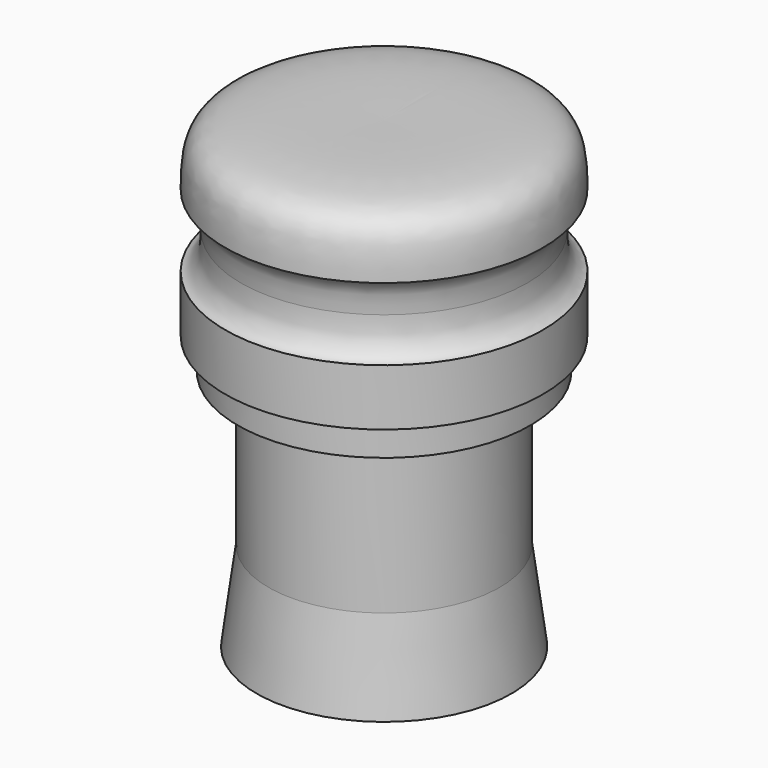
from build123d import *


with BuildPart() as f1:
    # F0 (on Right) → F1 (revolve)
    with BuildSketch(Plane.YZ):
        with BuildLine():
            Line((0, 37.465), (0, 0))
            Line((0, 0), (10.287, 0))
            Line((10.287, 0), (9.3345, 7.239))
            Line((9.3345, 7.239), (9.3345, 19.558))
            Line((9.3345, 19.558), (11.811, 19.558))
            Line((11.811, 19.558), (11.811, 22.098))
            Line((11.811, 22.098), (12.827, 22.098))
            Line((12.827, 22.098), (12.827, 26.67))
            add(Edge.make_bspline(
                [(12.827, 26.67), (12.4081355943, 26.7518746483), (11.668341413, 27.6965440026), (11.5477926188, 28.6778707178), (11.557, 29.591)],
                knots=[0, 0, 0, 0, 0.4500062565, 1, 1, 1, 1], degree=3))
            add(Edge.make_bspline(
                [(12.827, 32.512), (12.4568852809, 32.4087269434), (11.6627350099, 31.4718039327), (11.603105506, 30.474725655), (11.557, 29.591)],
                knots=[0, 0, 0, 0, 0.4510036491, 1, 1, 1, 1], degree=3))
            add(Edge.make_bspline(
                [(0, 37.465), (2.9634942766, 37.465), (10.0295003068, 37.6879569755), (12.5919958228, 36.131462946), (12.827, 34.3799444409), (12.827, 32.512)],
                knots=[0, 0, 0, 0, 0.4794803062, 0.715586112, 1, 1, 1, 1], degree=3))
        make_face()
    revolve(axis=Axis((0, 0, 18.7325), (0, 0, -1)))


solid = f1.part
